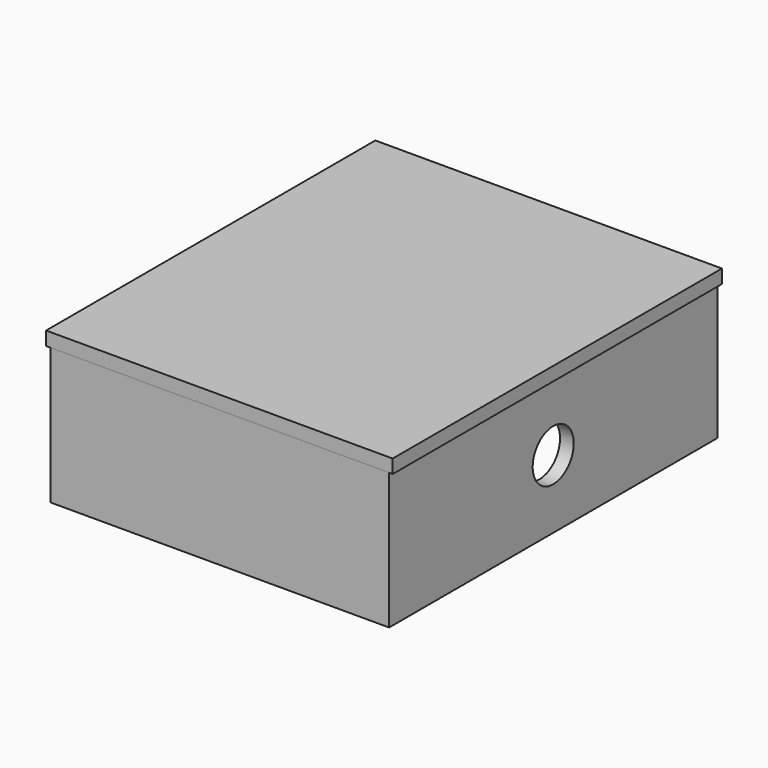
from build123d import *

# Parameters (mm, degrees)
F0_W     = 62.865
F0_H     = 25.4
F1_DEPTH = 76.2
F3_T     = -2.54
F4_W     = 64.389
F4_H     = 76.454
F5_DEPTH = 2.54
F2_R     = 4.7625
F6_DEPTH = 63.628
F8_DEPTH = 19.05


with BuildPart() as f1:
    # F0 (on Front) → F1 (new body)
    with BuildSketch(Plane.XZ):
        Rectangle(F0_W, F0_H)
    extrude(amount=F1_DEPTH)

    # F3
    f3_openings = [f1.faces().sort_by_distance(p)[0] for p in [
        (0, -38.1, -12.7),
    ]]
    offset(amount=F3_T, openings=f3_openings)

    # F4 (on face) → F5 (join)
    with BuildSketch(Plane.XY.offset(12.7)):
        with Locations((0, -38.1)):
            Rectangle(F4_W, F4_H)
    extrude(amount=F5_DEPTH)

    # F2 (on face) → F6 (cut, through all)
    with BuildSketch(Plane.YZ.offset(31.4325)):
        with Locations((-38.1, 0)):
            Circle(F2_R)
    extrude(amount=-F6_DEPTH, mode=Mode.SUBTRACT)

    # F7 (on face) → F8 (join)
    with BuildSketch(Plane(origin=(0, 0, 10.16), x_dir=(1, 0, 0), z_dir=(0, 0, -1))):
        Polygon((-2.976563, 61.9125), (3.373437, 61.9125), (3.373437, 59.27708), (6.35, 59.3725), (6.35, 61.9125), (6.35, 73.66), (0, 73.66), (-6.35, 73.66), (-6.35, 61.9125), (-6.35, 59.3725), (-2.976563, 59.3725), align=None)
        Polygon((2.976563, 16.8275), (2.976563, 14.2875), (-3.373437, 14.2875), (-3.373437, 16.8275), (-6.35, 16.8275), (-6.35, 14.2875), (-6.35, 2.54), (6.35, 2.54), (6.35, 14.2875), (6.35, 16.8275), align=None)
    extrude(amount=F8_DEPTH)


solid = f1.part
